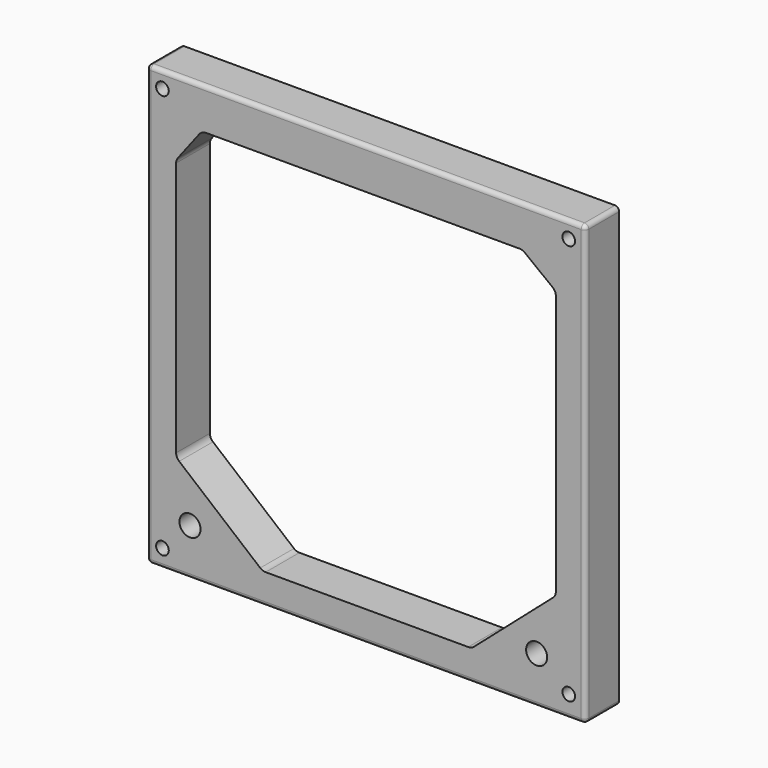
from build123d import *

# Parameters (mm, degrees)
F0_W        = 104
F0_H        = 104
F0_R        = 1.5
F0_R_2      = 2.5
F2_DEPTH    = 10
F2_FACE_W   = 104
F2_FACE_H   = 104
F2_FACE_R   = 1.5
F2_FACE_R_2 = 2.5
F3_DEPTH    = 25
F4_R        = 1


with BuildPart() as f2:
    # F0 (on Front) → F2 (new body)
    with BuildSketch(Plane.XZ):
        with Locations((1.0205563903, -3.0722830892)):
            Rectangle(F0_W, F0_H)
        with Locations((-47.2263507545, -50.8087884027)):
            Circle(F0_R, mode=Mode.SUBTRACT)
        with Locations((-40.6989715993, -43.9550094306)):
            Circle(F0_R_2, mode=Mode.SUBTRACT)
        with Locations((49.0661785007, -49.9558521996)):
            Circle(F0_R, mode=Mode.SUBTRACT)
        with Locations((41.4574928582, -43.9577177167)):
            Circle(F0_R_2, mode=Mode.SUBTRACT)
        with Locations((-47.2263507545, 45.0361557305)):
            Circle(F0_R, mode=Mode.SUBTRACT)
        with Locations((49.0661785007, 45.0242571533)):
            Circle(F0_R, mode=Mode.SUBTRACT)
    extrude(amount=F2_DEPTH)

    # F1 (on Front) + F2_face (on face) → F3 (cut)
    with BuildSketch(Plane.XZ):
        with BuildLine():
            Line((37.4257260145, 39.1947293328), (-36.9051963783, 39.1947293328))
            ThreePointArc((-36.9051963783, 39.1947293328), (-37.7897278988, 38.9884974308), (-38.4918408014, 38.4123333221))
            Line((-38.4918408014, 38.4123333221), (-43.5660880328, 31.8001456637))
            ThreePointArc((-43.5660880328, 31.8001456637), (-43.873287432, 31.2254690241), (-43.9794436097, 30.5825416744))
            Line((-43.9794436097, 30.5825416744), (-43.9794436097, -29.8682280959))
            ThreePointArc((-43.9794436097, -29.8682280959), (-43.7905206373, -30.7167562333), (-43.2594436097, -31.4049779128))
            Line((-43.2594436097, -31.4049779128), (-24.0500708974, -47.4049779128))
            ThreePointArc((-24.0500708974, -47.4049779128), (-23.4506957449, -47.7488529433), (-22.7700708974, -47.8682280959))
            Line((-22.7700708974, -47.8682280959), (25.2299291026, -47.8682280959))
            ThreePointArc((25.2299291026, -47.8682280959), (25.8975098604, -47.7764802387), (26.4967279793, -47.4682280959))
            Line((26.4967279793, -47.4682280959), (45.3353493779, -31.0333157505))
            ThreePointArc((45.3353493779, -31.0333157505), (45.8412136858, -30.3539983577), (46.0205563903, -29.5262260386))
            Line((46.0205563903, -29.5262260386), (46.0205563903, 32.097225442))
            ThreePointArc((46.0205563903, 32.097225442), (45.815861416, 32.9786333298), (45.2436765256, 33.6796214527))
            Line((45.2436765256, 33.6796214527), (38.6488461498, 38.7771253435))
            ThreePointArc((38.6488461498, 38.7771253435), (38.071948878, 39.0874511853), (37.4257260145, 39.1947293328))
        make_face()
    with BuildSketch(Plane(origin=(1.0231641347, -10, -2.9239537764), x_dir=(1, 0, 0), z_dir=(0, -1, 0))):
        with Locations((-0.0026077444, -0.1483293127)):
            Rectangle(F2_FACE_W, F2_FACE_H)
        with Locations((-48.2495148892, -47.8848346262)):
            Circle(F2_FACE_R, mode=Mode.SUBTRACT)
        with Locations((-41.7221357341, -41.0310556542)):
            Circle(F2_FACE_R_2, mode=Mode.SUBTRACT)
        with Locations((48.0430143659, -47.0318984232)):
            Circle(F2_FACE_R, mode=Mode.SUBTRACT)
        with Locations((40.4343287234, -41.0337639403)):
            Circle(F2_FACE_R_2, mode=Mode.SUBTRACT)
        with Locations((-48.2495148892, 47.9601095069)):
            Circle(F2_FACE_R, mode=Mode.SUBTRACT)
        with Locations((48.0430143659, 47.9482109297)):
            Circle(F2_FACE_R, mode=Mode.SUBTRACT)
    extrude(amount=F3_DEPTH, mode=Mode.SUBTRACT)

    # F4
    f4_edges = [f2.edges().sort_by_distance(p)[0] for p in [
        (-50.979444, -5, 48.927717),
        (-50.979444, -10, -3.072283),
        (1.020556, -10, 48.927717),
        (-50.979444, -5, -55.072283),
        (1.020556, -10, -55.072283),
        (53.020556, -10, -3.072283),
        (53.020556, -5, 48.927717),
        (53.020556, -5, -55.072283),
    ]]
    fillet(f4_edges, radius=F4_R)


solid = f2.part
